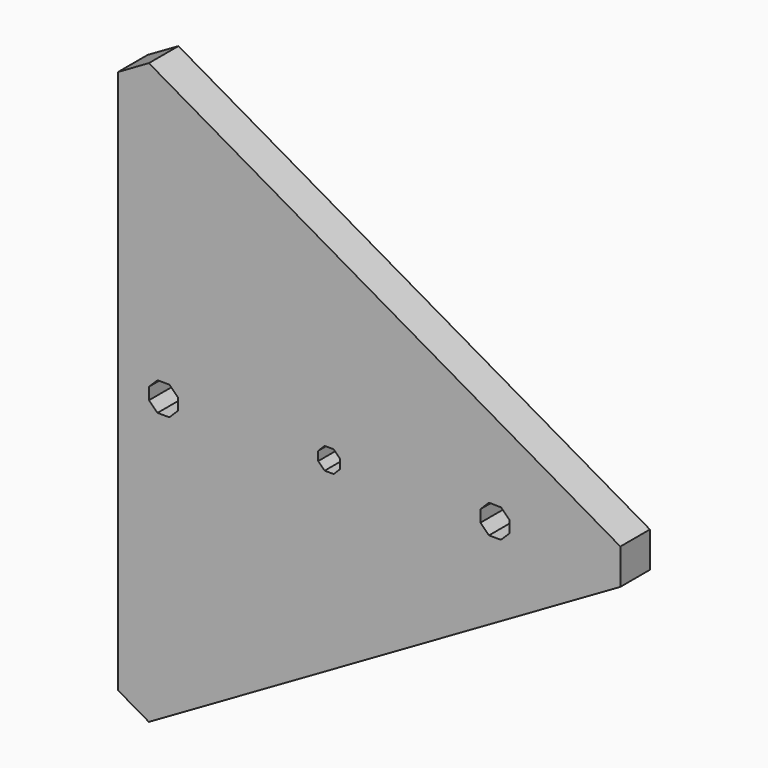
from build123d import *

# Parameters (mm, degrees)
F1_DEPTH = 6


with BuildPart() as f1:
    # F0 (on Front) → F1 (new body)
    with BuildSketch(Plane.XZ):
        Polygon((-48.720071, -45.024439), (-43.720071, -47.91119), (32.88247, -3.684693), (32.88247, 2.08881), (-43.720071, 46.315307), (-48.720071, 43.428556), align=None)
        Polygon((-43.692056, -1.887071), (-43.692112, 0.050163), (-42.32238, 1.419928), (-40.38527, 1.419928), (-39.015314, 0.050086), (-39.015314, -1.887071), (-40.38527, -3.256727), (-42.32238, -3.256727), align=None, mode=Mode.SUBTRACT)
        Polygon((-16.2048, -1.654473), (-16.2048, -0.182388), (-15.163749, 0.85871), (-13.691534, 0.857983), (-12.650804, -0.182438), (-12.650804, -1.654742), (-13.691534, -2.695477), (-15.165, -2.693566), align=None, mode=Mode.SUBTRACT)
        Polygon((10.159912, 0.050328), (11.52993, 1.420108), (13.518206, 1.387166), (14.85481, 0.050328), (14.85481, -1.896565), (13.489173, -3.261962), (11.533804, -3.261962), (10.159912, -1.88783), align=None, mode=Mode.SUBTRACT)
    extrude(amount=F1_DEPTH)


solid = f1.part
